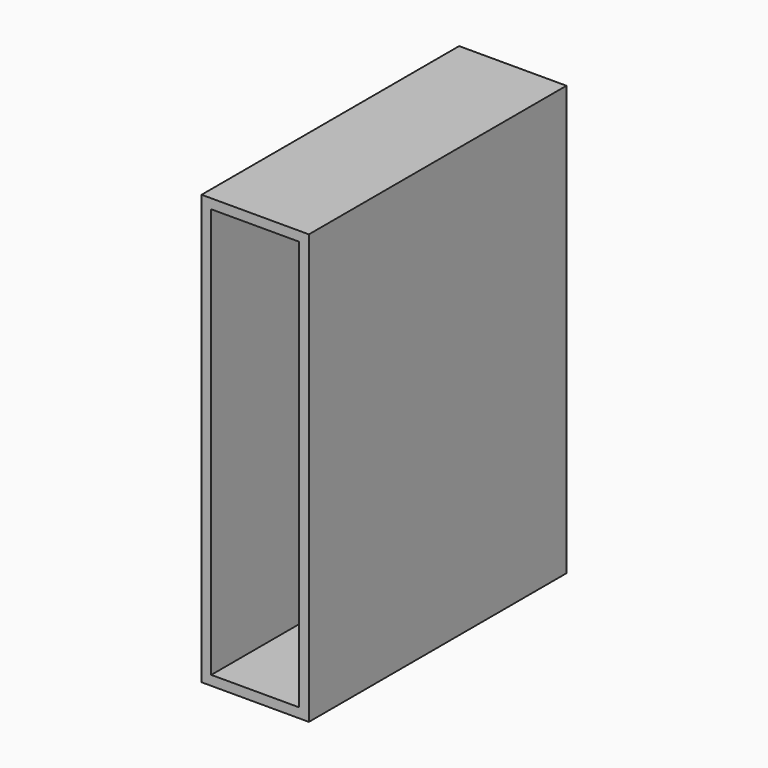
from build123d import *

# Parameters (mm, degrees)
F0_W     = 43.043024838
F0_H     = 43.7836721539
F1_DEPTH = 800
F2_DEPTH = 200
F3_DEPTH = 600
F4_T     = -18


with BuildPart() as f1:
    # F0 (on Top) → F1 (new body)
    with BuildSketch(Plane.XY):
        with Locations((21.521512419, -21.891836077)):
            Rectangle(F0_W, F0_H)
    extrude(amount=F1_DEPTH)

    # F2 (add): a face of the model
    f2_faces = [f1.faces().sort_by_distance(p)[0] for p in [
        (0, -21.891836077, 400),
    ]]
    extrude(f2_faces, amount=-F2_DEPTH)

    # F3 (add): a face of the model
    f3_faces = [f1.faces().sort_by_distance(p)[0] for p in [
        (100, -43.7836721539, 400),
    ]]
    extrude(f3_faces, amount=-F3_DEPTH)

    # F4
    f4_openings = [f1.faces().sort_by_distance(p)[0] for p in [
        (100, -43.783672, 400),
    ]]
    offset(amount=F4_T, openings=f4_openings)


solid = f1.part
